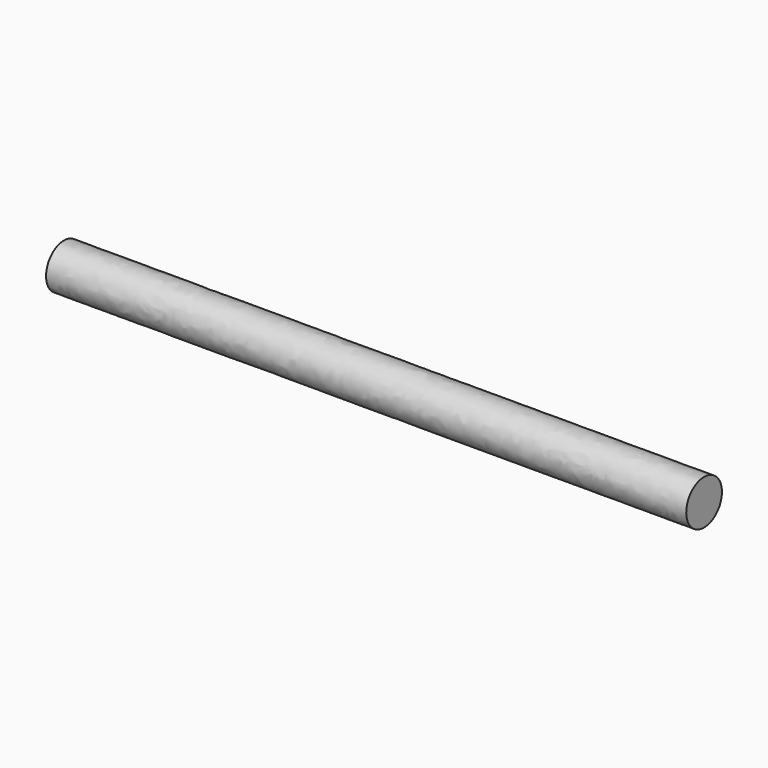
from build123d import *

# Parameters (mm, degrees)
F1_DEPTH = 330


with BuildPart() as f1:
    # F0 (on Right) → F1 (new body)
    with BuildSketch(Plane.YZ):
        with BuildLine():
            add(Edge.make_bspline(
                [(-37.436411, 41.12284), (-17.517826, 41.12284), (-27.477119, 58.37284), (-37.436411, 75.62284), (-47.395703, 58.37284), (-57.354995, 41.12284), (-37.436411, 41.12284)],
                knots=[0, 0, 0, 2.094395, 2.094395, 4.18879, 4.18879, 6.283185, 6.283185, 6.283185], degree=2, weights=[1, 0.5, 1, 0.5, 1, 0.5, 1]))
        make_face()
    extrude(amount=F1_DEPTH)


solid = f1.part
